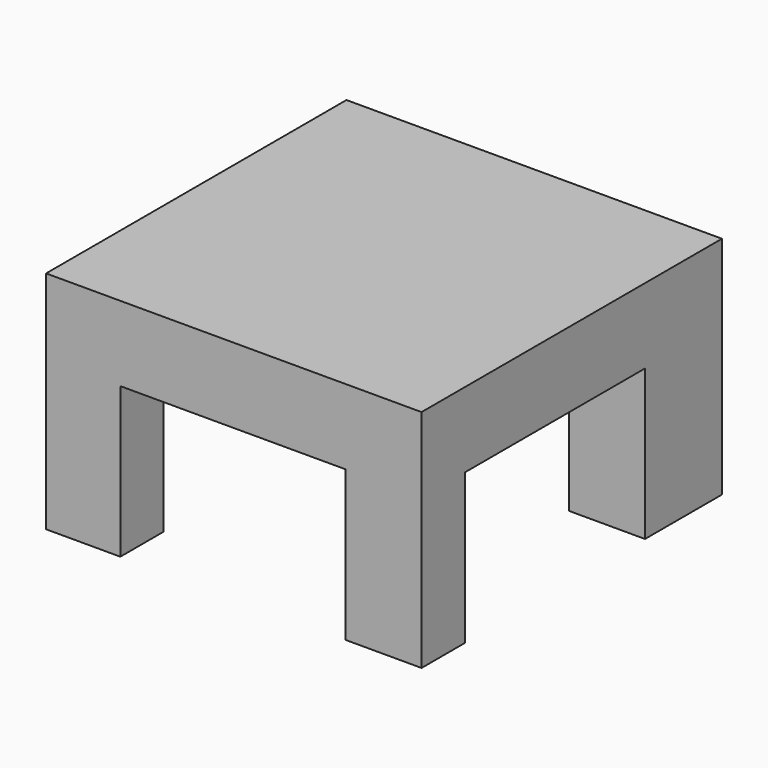
from build123d import *

# Parameters (mm, degrees)
F0_W     = 100
F0_H     = 100
F1_DEPTH = 100
F2_W     = 100
F2_H     = 100
F3_DEPTH = 40
F4_W     = 60
F4_H     = 40
F5_DEPTH = 176
F6_W     = 60
F6_H     = 40
F7_DEPTH = 223


with BuildPart() as f1:
    # F0 (on Top) → F1 (new body)
    with BuildSketch(Plane.XY):
        Rectangle(F0_W, F0_H)
    extrude(amount=F1_DEPTH)

    # F2 (on face) → F3 (cut)
    with BuildSketch(Plane.XY.offset(100)):
        Rectangle(F2_W, F2_H)
    extrude(amount=-F3_DEPTH, mode=Mode.SUBTRACT)

    # F4 (on face) → F5 (cut)
    with BuildSketch(Plane.XZ.offset(50)):
        with Locations((-0.226441, 20)):
            Rectangle(F4_W, F4_H)
    extrude(amount=-F5_DEPTH, mode=Mode.SUBTRACT)

    # F6 (on face) → F7 (cut)
    with BuildSketch(Plane(origin=(-50, 0, 0), x_dir=(0, -1, 0), z_dir=(-1, 0, 0))):
        with Locations((5.599647, 20)):
            Rectangle(F6_W, F6_H)
    extrude(amount=-F7_DEPTH, mode=Mode.SUBTRACT)


solid = f1.part
